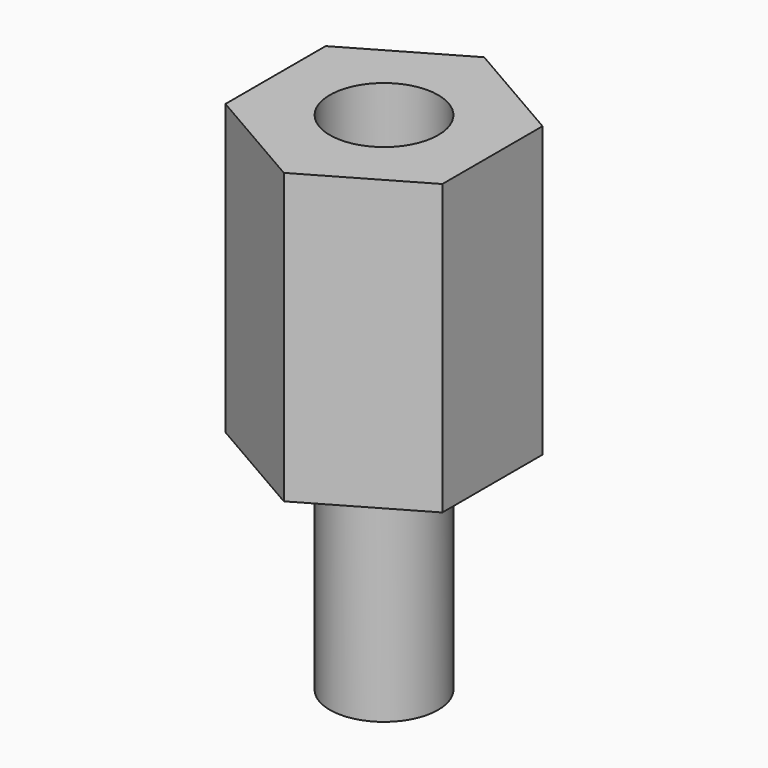
from build123d import *

# Parameters (mm, degrees)
PAD_DEPTH    = 8
SKETCH001_R  = 1.5
PAD001_DEPTH = 6
SKETCH002_R  = 1.5
POCKET_DEPTH = 6


with BuildPart() as part:
    # Sketch → Pad (new body)
    with BuildSketch(Plane.XY):
        Polygon((3, -1.732051), (3, 1.732051), (0, 3.464102), (-3, 1.732051), (-3, -1.732051), (0, -3.464102), align=None)
    extrude(amount=PAD_DEPTH)

    # Sketch001 (on Face7 of Pad) → Pad001 (join)
    with BuildSketch(Plane(origin=(0, 0, 0), x_dir=(1, 0, 0), z_dir=(0, 0, -1))):
        Circle(SKETCH001_R)
    extrude(amount=PAD001_DEPTH)

    # Sketch002 (on Face5 of Pad001) → Pocket (cut)
    with BuildSketch(Plane.XY.offset(8)):
        Circle(SKETCH002_R)
    extrude(amount=-POCKET_DEPTH, mode=Mode.SUBTRACT)


solid = part.part
